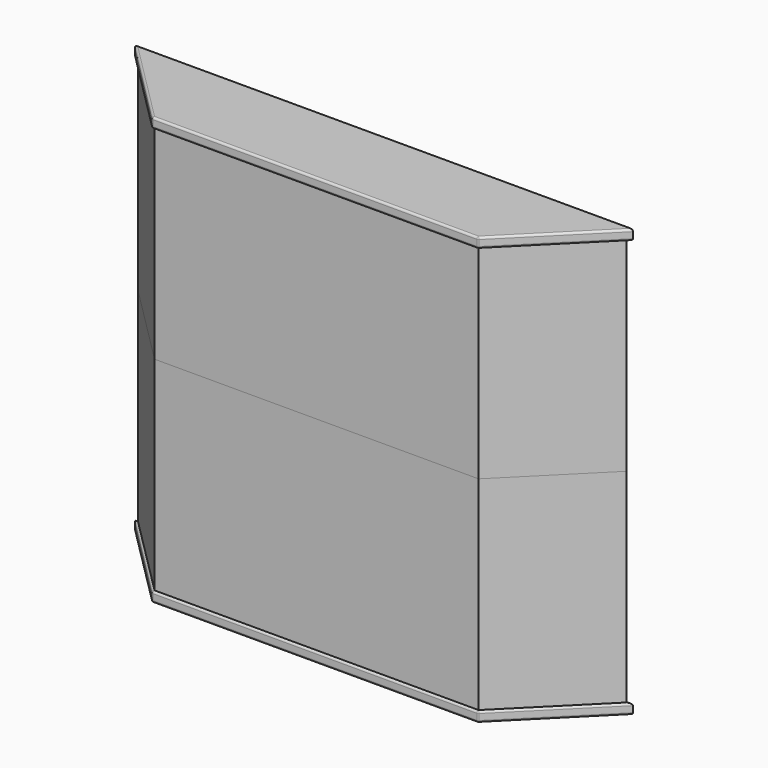
from build123d import *

# Parameters (mm, degrees)
F1_DEPTH = 12.7
F2_R     = 2.54
F3_DEPTH = 254


with BuildPart() as f1:
    # F0 (on Top) → F1 (new body)
    with BuildSketch(Plane.XY):
        Polygon((-203.2, 0), (0, 0), (203.2, 0), (310.963073, 107.763073), (0, 107.763073), (-310.963073, 107.763073), align=None)
    extrude(amount=F1_DEPTH)

    # F2
    f2_edges = [f1.edges().sort_by_distance(p)[0] for p in [
        (-257.081537, 53.881537, 12.7),
        (0, 0, 12.7),
        (257.081537, 53.881537, 12.7),
        (0, 107.763073, 12.7),
        (-203.2, 0, 6.35),
        (203.2, 0, 6.35),
        (0, 0, 0),
        (257.081537, 53.881537, 0),
        (-257.081537, 53.881537, 0),
    ]]
    fillet(f2_edges, radius=F2_R)


with BuildPart() as f3:
    # F1_face (on face) → F3 (new body)
    with BuildSketch(Plane(origin=(0, 57.347761, 12.7), x_dir=(1, 0, 0), z_dir=(0, 0, 1))):
        Polygon((-304.830971, 47.875313), (-202.147898, -54.807761), (202.147898, -54.807761), (304.830971, 47.875313), align=None)
    extrude(amount=F3_DEPTH)


with BuildPart() as f4_1:
    # F4: instance of F1
    add(f1.part.mirror(Plane(origin=(0, 57.347761, 266.7), x_dir=(1, 0, 0), z_dir=(0, 0, 1))))


with BuildPart() as f4_2:
    # F4: instance of F3
    add(f3.part.mirror(Plane(origin=(0, 57.347761, 266.7), x_dir=(1, 0, 0), z_dir=(0, 0, 1))))


solid = Compound([f1.part, f3.part, f4_1.part, f4_2.part])
